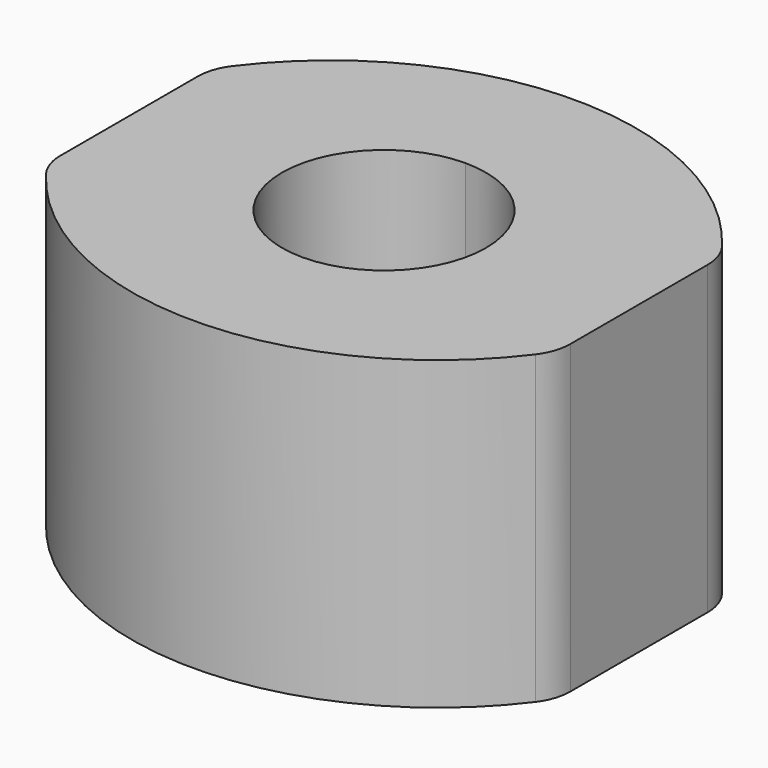
from build123d import *

# Parameters (mm, degrees)
F1_DEPTH = 38.1
F2_R     = 12.7


with BuildPart() as f1:
    # F0 (on Top) → F1 (new body, symmetric)
    with BuildSketch(Plane.XY):
        with BuildLine():
            Line((0, 25.4), (63.5, 25.4))
            ThreePointArc((63.5, 25.4), (0, 59.478865), (-63.5, 25.4))
            Line((-63.5, 25.4), (0, 25.4))
        make_face()
        with BuildLine():
            ThreePointArc((0, -25.4), (-25.4, 0), (0, 25.4))
            Line((0, 25.4), (-63.5, 25.4))
            Line((-63.5, 25.4), (-63.5, -25.4))
            Line((-63.5, -25.4), (0, -25.4))
        make_face()
        with BuildLine():
            Line((63.5, -25.4), (63.5, 25.4))
            Line((63.5, 25.4), (0, 25.4))
            ThreePointArc((0, 25.4), (17.960512, 17.960512), (25.4, 0))
            ThreePointArc((25.4, 0), (17.960512, -17.960512), (0, -25.4))
            Line((0, -25.4), (63.5, -25.4))
        make_face()
        with BuildLine():
            ThreePointArc((-63.5, -25.4), (0, -59.478865), (63.5, -25.4))
            Line((63.5, -25.4), (0, -25.4))
            Line((0, -25.4), (-63.5, -25.4))
        make_face()
    extrude(amount=F1_DEPTH, both=True)

    # F2
    f2_edges = [f1.edges().sort_by_distance(p)[0] for p in [
        (-63.5, 25.4, 0),
        (-63.5, -25.4, 0),
        (63.5, 25.4, 0),
        (63.5, -25.4, 0),
    ]]
    fillet(f2_edges, radius=F2_R)


solid = f1.part
